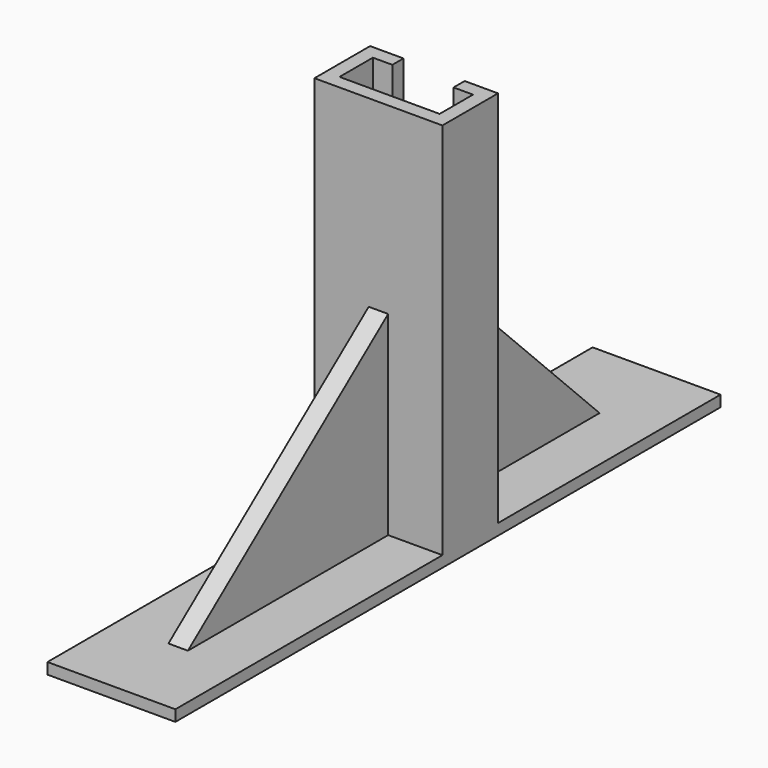
from build123d import *

# Parameters (mm, degrees)
F0_W      = 46
F0_H      = 80
F1_DEPTH  = 25
F4_DEPTH  = 60
F5_DEPTH  = 46
F8_DEPTH  = 3.5
F10_DEPTH = 0.4


with BuildPart() as f1:
    # F0 (on Front) → F1 (new body)
    with BuildSketch(Plane.XZ):
        with Locations((-12.4670048244, -31.5567021806)):
            Rectangle(F0_W, F0_H)
    extrude(amount=F1_DEPTH)

    # F3 (on face) → F4 (join)
    with BuildSketch(Plane.XY.offset(8.4432978194)):
        Polygon((10.5329951756, -25), (10.5329951756, 0), (-1.4670048244, 0), (-1.4670048244, -5), (5.5329951756, -5), (5.5329951756, -20), (-30.4670048244, -20), (-30.4670048244, -5), (-23.4670048244, -5), (-23.4670048244, 0), (-35.4670048244, 0), (-35.4670048244, -25), align=None)
    extrude(amount=F4_DEPTH)

    # F2 (on face) → F5 (join)
    with BuildSketch(Plane(origin=(-35.4670048244, 0, 0), x_dir=(0, -1, 0), z_dir=(-1, 0, 0))):
        Polygon((-100, -71.5567021806), (0, -71.5567021806), (0, -67.5567021806), (-70, -67.5567021806), (-100, -67.5567021806), align=None)
        Polygon((25, -67.5567021806), (25, -71.5567021806), (145, -71.5567021806), (145, -67.5567021806), (115, -67.5567021806), align=None)
    extrude(amount=-F5_DEPTH)

    # F7 (on offset) → F8 (join, symmetric)
    with BuildSketch(Plane(origin=(-12.4670048244, 0, 0), x_dir=(0, -1, 0), z_dir=(-1, 0, 0))):
        Polygon((0, -67.5567021806), (0, 2.4432978194), (-70, -67.5567021806), align=None)
        Polygon((25, 2.4432978194), (25, -67.5567021806), (115, -67.5567021806), align=None)
    extrude(amount=F8_DEPTH, both=True)

    # F10 (add, through all): a face of the model
    f10_faces = [f1.faces().sort_by_distance(p)[0] for p in [
        (-12.4670048244, -10.8076923077, 8.4432978194),
    ]]
    extrude(f10_faces, amount=F10_DEPTH)


solid = f1.part
